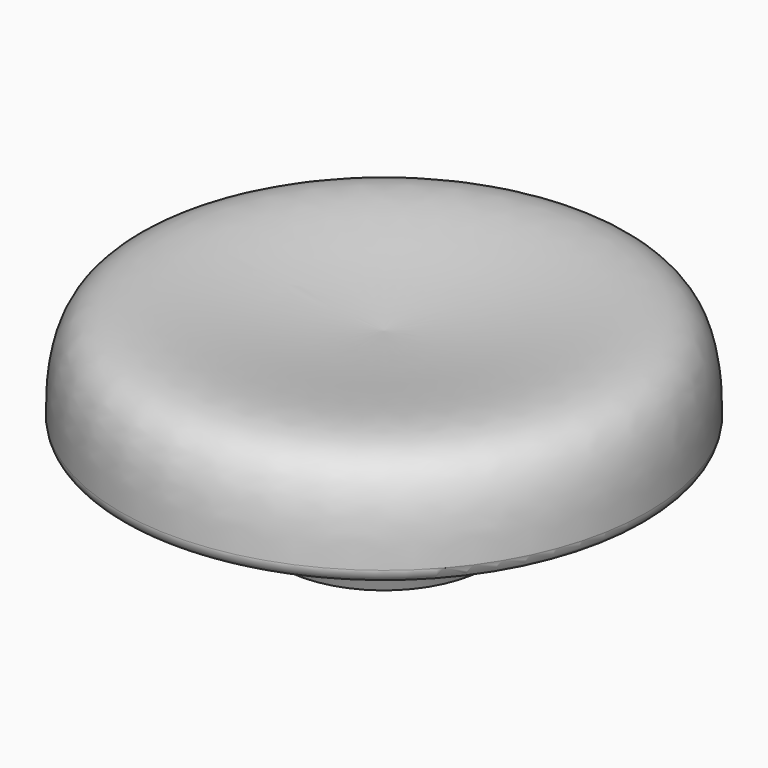
from build123d import *


with BuildPart() as f1:
    # F0 (on Front) → F1 (revolve)
    with BuildSketch(Plane.XZ):
        with BuildLine():
            Line((-5.6444271468, 0), (0, 0))
            Line((0, 0), (0, 9.4445282593))
            add(Edge.make_bspline(
                [(-14.2969538472, 5.4616185367), (-14.2954630619, 7.2981758143), (-13.8795465315, 10.7809654288), (-7.9398666555, 10.438717467), (-4.2701704463, 9.6748061831), (0, 9.4445282593)],
                knots=[0.0375600553, 0.0375600553, 0.0375600553, 0.0375600553, 0.310954321, 0.5969440357, 1, 1, 1, 1], degree=3))
            ThreePointArc((-14.2969538472, 5.4616185367), (-14.0739881069, 4.9224033629), (-13.5349540983, 4.699))
            Line((-13.5349540983, 4.699), (-5.969, 4.699))
            Line((-5.969, 4.699), (-5.969, 0.8170447545))
            Line((-5.969, 0.8170447545), (-5.6444271468, 0))
        make_face()
    revolve(axis=Axis((0, 0, 7.853038609), (0, 0, 1)))


solid = f1.part
